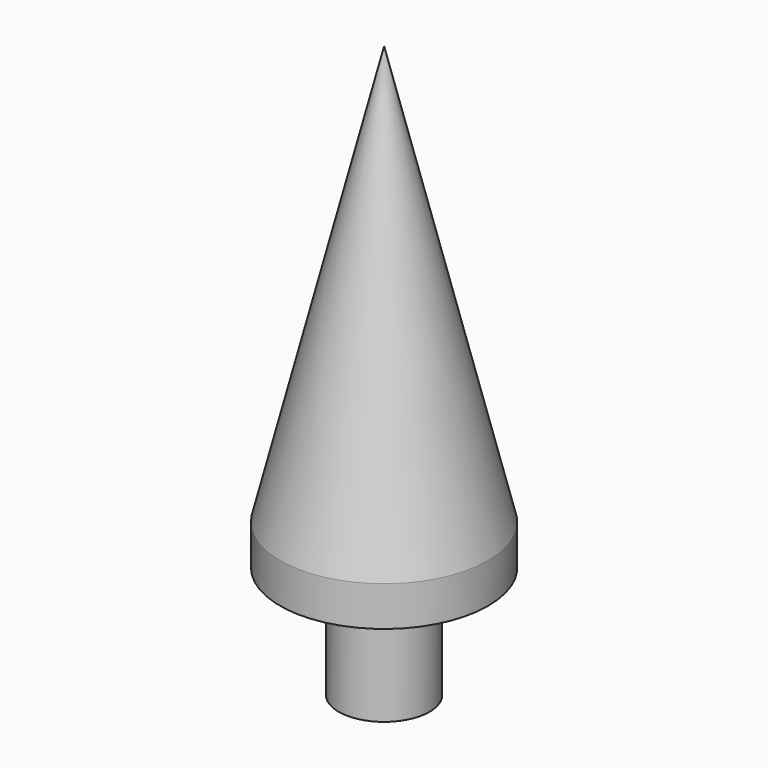
from build123d import *


with BuildPart() as f1:
    # F0 (on Front) → F1 (revolve)
    with BuildSketch(Plane.XZ):
        Polygon((16.5703676694, 29.1104319518), (16.5703674581, -20.0385680482), (20.4819674581, -20.0385680482), (20.4819674581, -10.3738680482), (25.5238674581, -10.3738680482), (25.5238674581, -6.9448680482), align=None)
    revolve(axis=Axis((16.5703675638, 0, 4.5359319518), (4.3e-09, 0, 1)))


solid = f1.part
